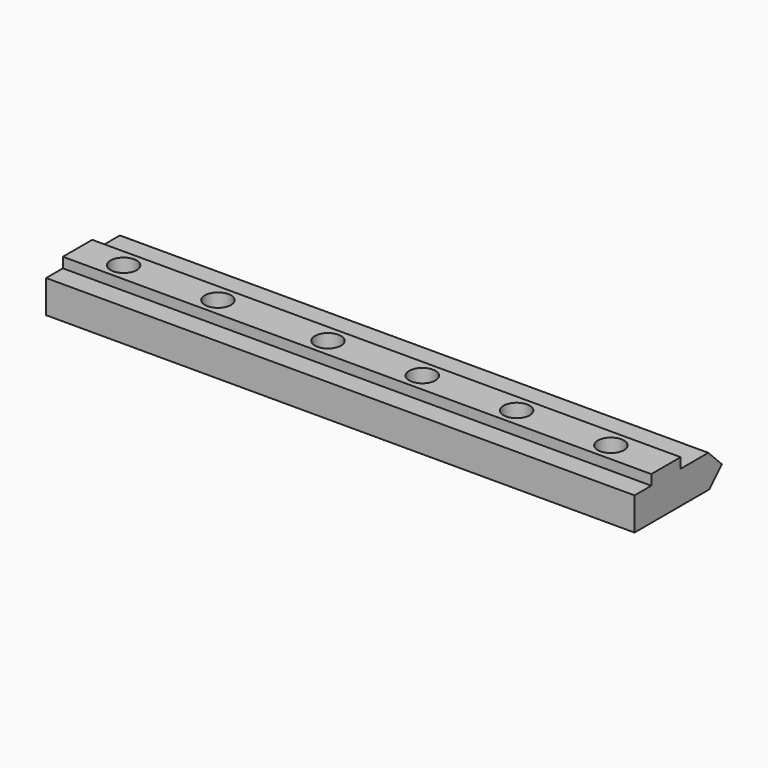
from build123d import *

# Parameters (mm, degrees)
F1_DEPTH = 561.5
F2_R     = 25
F3_DEPTH = 82.001


with BuildPart() as f1:
    # F0 (on Right) → F1 (new body, symmetric)
    with BuildSketch(Plane.YZ):
        Polygon((0, 62.5), (0, 0), (178.5, 0), (208.5, 30), (176, 62.5), (110, 62.5), (110, 82), (40, 82), (40, 62.5), align=None)
    extrude(amount=F1_DEPTH, both=True)

    # F2 (on face) → F3 (cut, through all)
    with BuildSketch(Plane.XY.offset(82)):
        with Locations((456.5, 75)):
            Circle(F2_R)
        with Locations((276.5, 75)):
            Circle(F2_R)
        with Locations((96.5, 75)):
            Circle(F2_R)
        with Locations((-83.5, 75)):
            Circle(F2_R)
        with Locations((-293.5, 75)):
            Circle(F2_R)
        with Locations((-473.5, 75)):
            Circle(F2_R)
    extrude(amount=-F3_DEPTH, mode=Mode.SUBTRACT)


solid = f1.part
